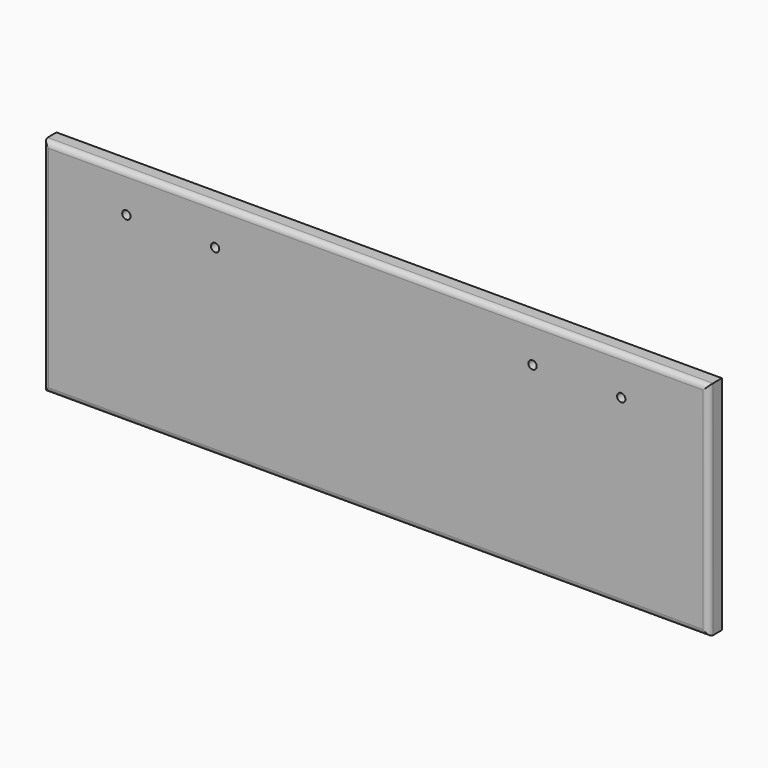
from build123d import *

# Parameters (mm, degrees)
F0_W     = 120
F0_H     = 40
F1_DEPTH = 3
F2_R     = 1
F3_R     = 0.75
F4_DEPTH = 5.9
F5_W     = 4.308377
F5_H     = 3.907596
F5_W_2   = 4.308376
F6_DEPTH = 4


with BuildPart() as f1:
    # F0 (on Front) → F1 (new body)
    with BuildSketch(Plane.XZ):
        Rectangle(F0_W, F0_H)
    extrude(amount=F1_DEPTH)

    # F2
    f2_edges = [f1.edges().sort_by_distance(p)[0] for p in [
        (0, -3, 20),
        (-60, -3, 0),
        (0, -3, -20),
        (60, -3, 0),
    ]]
    fillet(f2_edges, radius=F2_R)

    # F3 (on face) → F4 (cut)
    with BuildSketch(Plane.XZ.offset(3)):
        with Locations((-45, 13)):
            Circle(F3_R)
        with Locations((-29, 13)):
            Circle(F3_R)
        with Locations((28.25, 13)):
            Circle(F3_R)
        with Locations((44.25, 13)):
            Circle(F3_R)
    extrude(amount=-F4_DEPTH, mode=Mode.SUBTRACT)

    # F5 (on face) → F6 (join)
    with BuildSketch(Plane(origin=(0, 0, 0), x_dir=(-1, 0, 0), z_dir=(0, 1, 0))):
        with Locations((-44.288592, 12.487537)):
            Rectangle(F5_W, F5_H)
        with Locations((-28.407722, 12.487537)):
            Rectangle(F5_W, F5_H)
        with Locations((28.944263, 12.487537)):
            Rectangle(F5_W_2, F5_H)
        with Locations((45.069936, 12.487537)):
            Rectangle(F5_W, F5_H)
    extrude(amount=F6_DEPTH)


solid = f1.part
